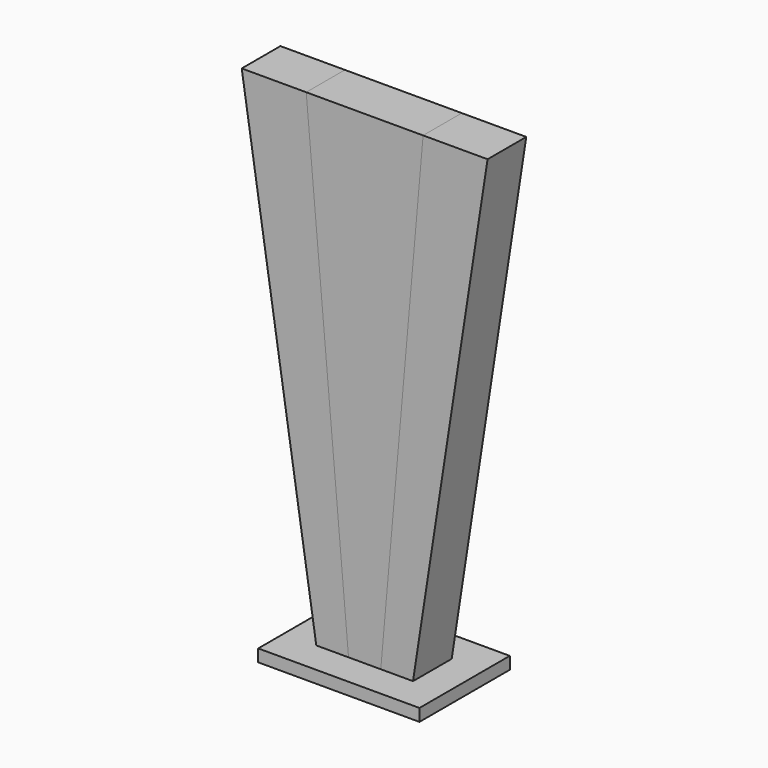
from build123d import *

# Parameters (mm, degrees)
F1_DEPTH = 75
F2_DEPTH = 75
F3_W     = 500
F3_H     = 350
F4_DEPTH = 38.1


with BuildPart() as f1:
    # F0 (on Front) → F1 (new body, symmetric)
    with BuildSketch(Plane.XZ):
        Polygon((-150, 0), (-50, 0), (-181.232995, 1500), (-381.232995, 1500), align=None)
        Polygon((181.232995, 1500), (50, 0), (150, 0), (381.232995, 1500), align=None)
    extrude(amount=F1_DEPTH, both=True)


with BuildPart() as f2:
    # F0 (on Front) → F2 (new body, symmetric)
    with BuildSketch(Plane.XZ):
        Polygon((-181.232995, 1500), (-50, 0), (50, 0), (181.232995, 1500), align=None)
    extrude(amount=F2_DEPTH, both=True)


with BuildPart() as f4:
    # F3 (on Top) → F4 (new body)
    with BuildSketch(Plane.XY):
        Rectangle(F3_W, F3_H)
    extrude(amount=-F4_DEPTH)


solid = Compound([f1.part, f2.part, f4.part])
